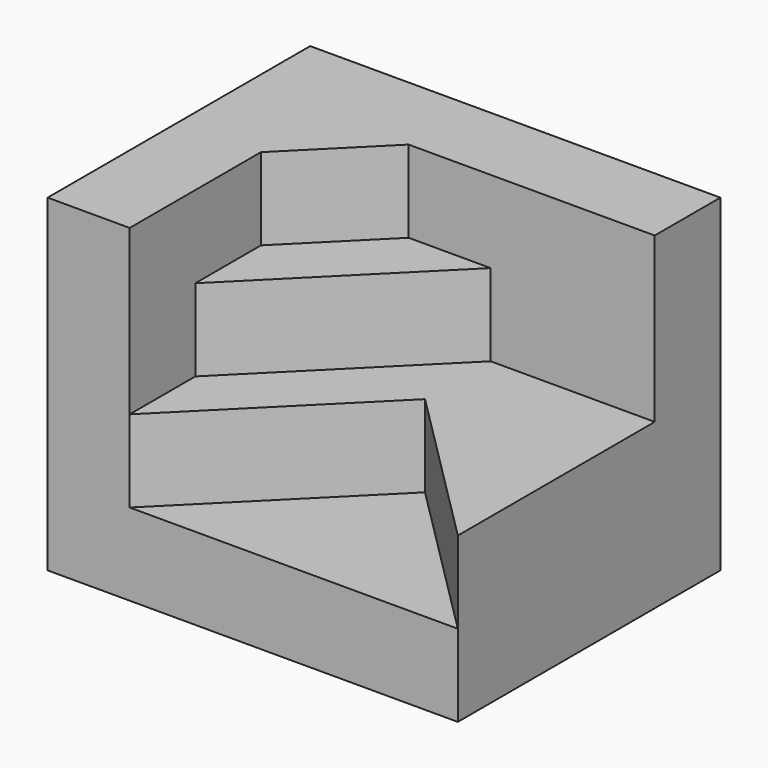
from build123d import *

# Parameters (mm, degrees)
F0_W     = 50
F0_H     = 40
F1_DEPTH = 40
F3_DEPTH = 10
F5_DEPTH = 10
F7_DEPTH = 10


with BuildPart() as f1:
    # F0 (on Top) → F1 (new body)
    with BuildSketch(Plane.XY):
        with Locations((25, 20)):
            Rectangle(F0_W, F0_H)
    extrude(amount=F1_DEPTH)

    # F2 (on face) → F3 (cut)
    with BuildSketch(Plane.XY.offset(40)):
        Polygon((10, 20), (10, 0), (50, 0), (50, 30), (20, 30), align=None)
    extrude(amount=-F3_DEPTH, mode=Mode.SUBTRACT)

    # F4 (on face) → F5 (cut)
    with BuildSketch(Plane.XY.offset(30)):
        Polygon((10, 10), (10, 0), (50, 0), (50, 30), (30, 30), align=None)
    extrude(amount=-F5_DEPTH, mode=Mode.SUBTRACT)

    # F6 (on face) → F7 (cut)
    with BuildSketch(Plane.XY.offset(20)):
        Polygon((30, 20), (10, 0), (50, 0), align=None)
    extrude(amount=-F7_DEPTH, mode=Mode.SUBTRACT)


solid = f1.part
